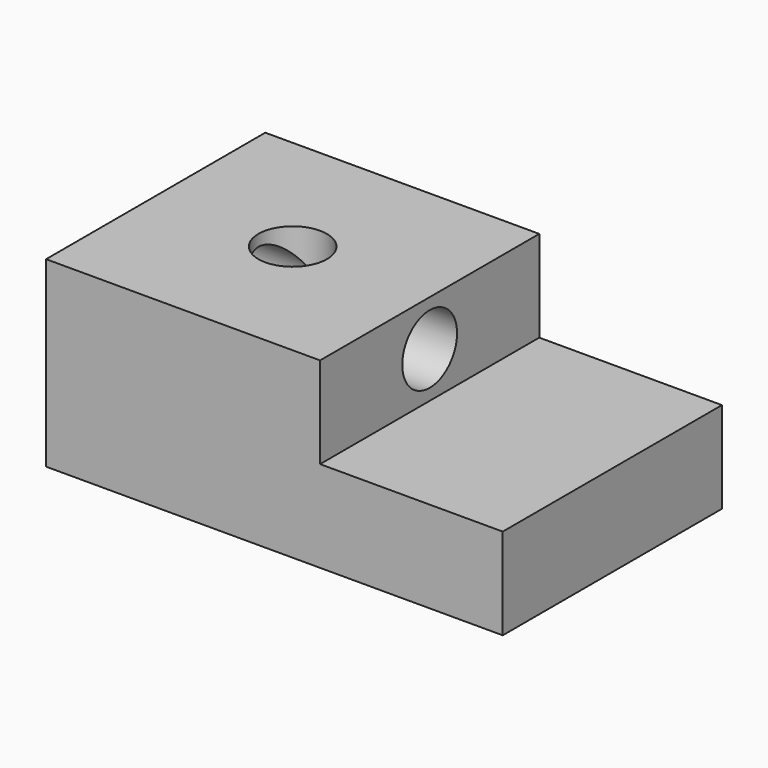
from build123d import *

# Parameters (mm, degrees)
F1_DEPTH = 76.2
F4_D     = 19.05
F5_D     = 19.05


with BuildPart() as f1:
    # F0 (on Front) → F1 (new body)
    with BuildSketch(Plane.XZ):
        Polygon((0, 50.8), (0, 0), (127, 0), (127, 25.4), (76.2, 25.4), (76.2, 50.8), align=None)
    extrude(amount=F1_DEPTH)

    # F4 (through all)
    with Locations(Plane.YZ.offset(76.2)):
        with Locations((-38.1, 38.1)):
            Hole(F4_D / 2)

    # F5 (through all)
    with Locations(Plane.XY.offset(50.8)):
        with Locations((38.1, -38.1)):
            Hole(F5_D / 2)


solid = f1.part
